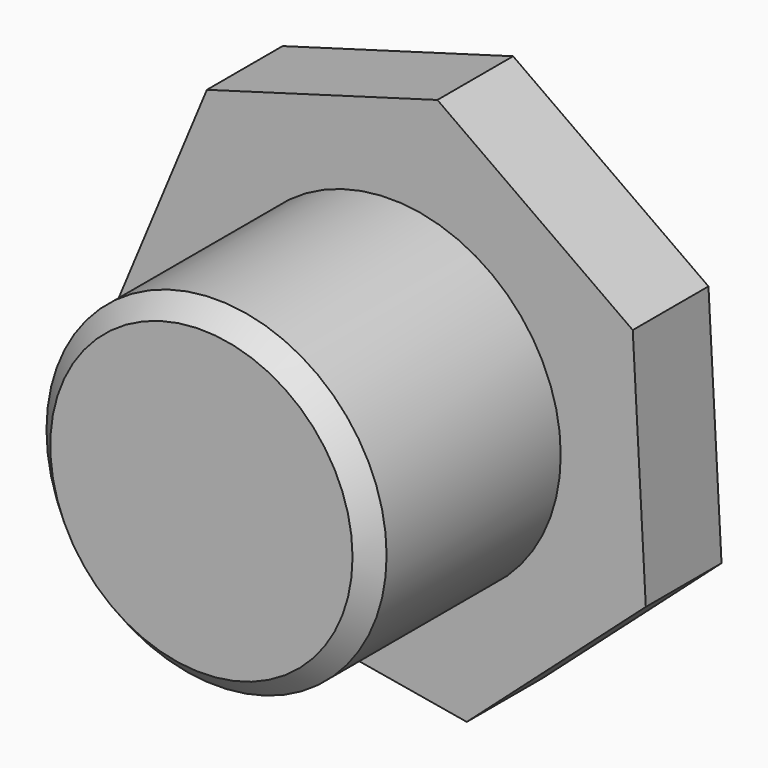
from build123d import *

# Parameters (mm, degrees)
F1_DEPTH = 25.4
F2_R     = 45.643757
F3_DEPTH = 63.5
F4_SIZE  = 5.08


with BuildPart() as f1:
    # F0 (on Front) → F1 (new body)
    with BuildSketch(Plane.XZ):
        Polygon((-74.051848, -4.042859), (-43.009737, -60.416748), (20.419583, -71.295593), (68.472541, -28.487402), (64.964279, 35.772383), (12.53659, 73.094834), (-49.331407, 55.375384), align=None)
    extrude(amount=F1_DEPTH)

    # F2 (on face) → F3 (join)
    with BuildSketch(Plane.XZ.offset(25.4)):
        Circle(F2_R)
    extrude(amount=F3_DEPTH)

    # F4
    f4_edges = [f1.edges().sort_by_distance(p)[0] for p in [
        (-45.643757, -88.9, 0),
    ]]
    chamfer(f4_edges, length=F4_SIZE)


solid = f1.part
